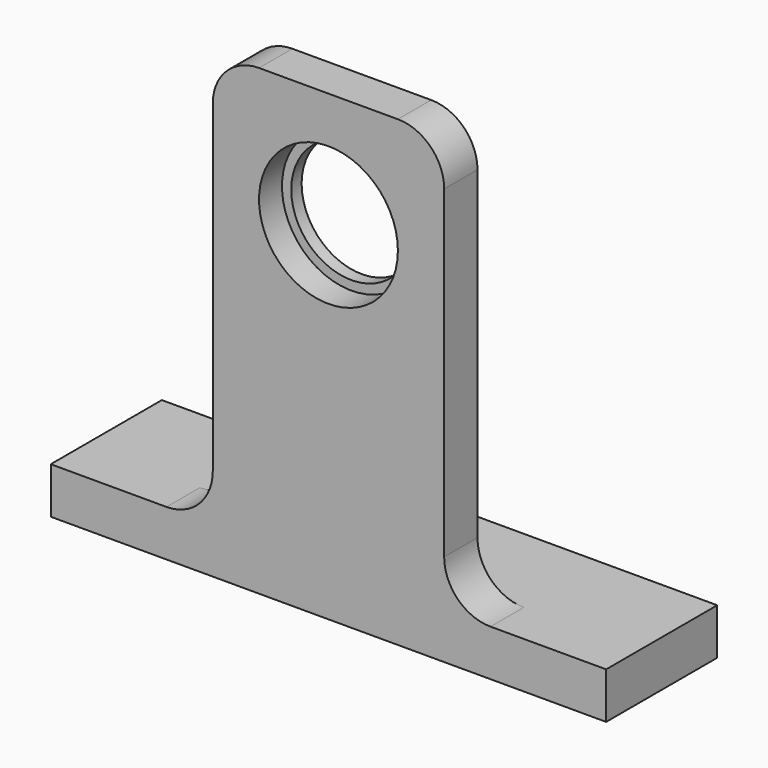
from build123d import *

# Parameters (mm, degrees)
F1_DEPTH      = 19.05
F2_W          = 26.162
F2_H          = 57.15
F3_DEPTH      = 38.101
F3_DEPTH_BACK = 38.101
F4_R          = 9.525
F5_DEPTH      = 19.051
F6_R          = 9.525
F6_R_2        = 8.255
F7_DEPTH      = 1.778


with BuildPart() as f1:
    # F0 (on Front) → F1 (new body)
    with BuildSketch(Plane.XZ):
        with BuildLine():
            Line((-38.1, -43.3179386414), (-38.1, -49.6679386414))
            Line((-38.1, -49.6679386414), (38.1, -49.6679386414))
            Line((38.1, -49.6679386414), (38.1, -43.3179386414))
            Line((38.1, -43.3179386414), (22.225, -43.3179386414))
            ThreePointArc((22.225, -43.3179386414), (17.7348719395, -41.458066702), (15.875, -36.9679386414))
            Line((15.875, -36.9679386414), (15.875, 7.4820613586))
            ThreePointArc((15.875, 7.4820613586), (14.0151280605, 11.9721894191), (9.525, 13.8320613586))
            Line((9.525, 13.8320613586), (-9.525, 13.8320613586))
            ThreePointArc((-9.525, 13.8320613586), (-14.0151280605, 11.9721894191), (-15.875, 7.4820613586))
            Line((-15.875, 7.4820613586), (-15.875, -36.9679386414))
            ThreePointArc((-15.875, -36.9679386414), (-17.7348719395, -41.458066702), (-22.225, -43.3179386414))
            Line((-22.225, -43.3179386414), (-38.1, -43.3179386414))
        make_face()
    extrude(amount=F1_DEPTH)

    # F2 (on Right) → F3 (cut, two sides)
    with BuildSketch(Plane.YZ) as f3_sk:
        with Locations((-0.254, -14.7429386414)):
            Rectangle(F2_W, F2_H)
    extrude(amount=-F3_DEPTH, mode=Mode.SUBTRACT)
    extrude(f3_sk.sketch, amount=F3_DEPTH_BACK, mode=Mode.SUBTRACT)

    # F4 (on face) → F5 (cut, through all)
    with BuildSketch(Plane.XZ.offset(19.05)):
        with Locations((0, -2.0429386414)):
            Circle(F4_R)
    extrude(amount=-F5_DEPTH, mode=Mode.SUBTRACT)

    # F6 (on face) → F7 (join)
    with BuildSketch(Plane(origin=(0, -13.335, 0), x_dir=(-1, 0, 0), z_dir=(0, 1, 0))):
        with Locations((0, -2.0429386414)):
            Circle(F6_R)
        with Locations((0, -2.0429386414)):
            Circle(F6_R_2, mode=Mode.SUBTRACT)
    extrude(amount=-F7_DEPTH)


solid = f1.part
